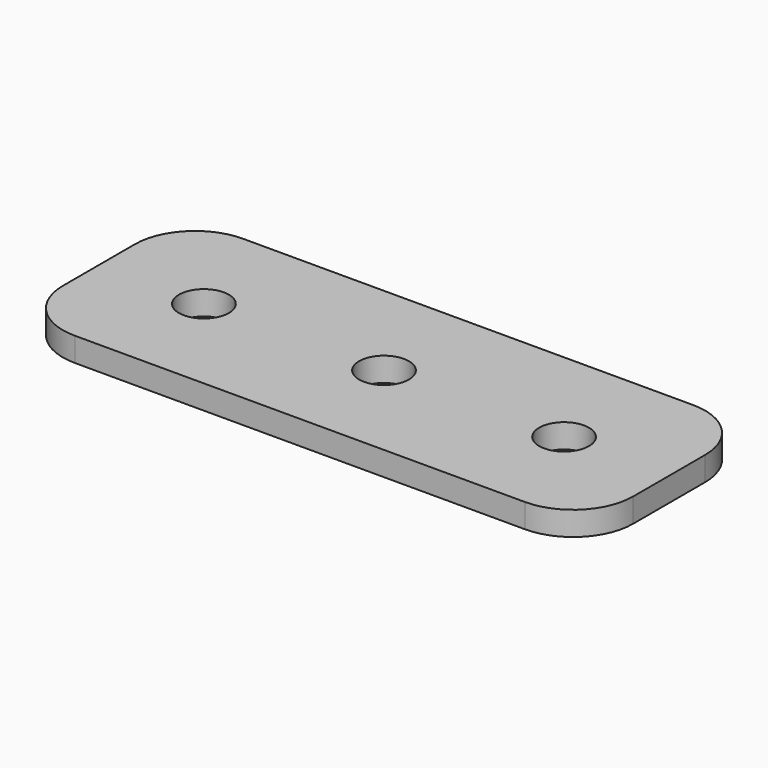
from build123d import *

# Parameters (mm, degrees)
SKETCH_R  = 4.15
PAD_DEPTH = 4


with BuildPart() as part:
    # Sketch → Pad (new body)
    with BuildSketch(Plane.XY):
        with BuildLine():
            Line((-37.5, 17.5), (37.5, 17.5))
            ThreePointArc((47.5, 7.5), (44.571068, 14.571068), (37.5, 17.5))
            Line((47.5, 7.5), (47.5, -7.5))
            ThreePointArc((37.5, -17.5), (44.571068, -14.571068), (47.5, -7.5))
            Line((37.5, -17.5), (-37.5, -17.5))
            ThreePointArc((-47.5, -7.5), (-44.571068, -14.571068), (-37.5, -17.5))
            Line((-47.5, -7.5), (-47.5, 7.5))
            ThreePointArc((-37.5, 17.5), (-44.571068, 14.571068), (-47.5, 7.5))
        make_face()
        Circle(SKETCH_R, mode=Mode.SUBTRACT)
        with Locations((-30, 0)):
            Circle(SKETCH_R, mode=Mode.SUBTRACT)
        with Locations((30, 0)):
            Circle(SKETCH_R, mode=Mode.SUBTRACT)
    extrude(amount=PAD_DEPTH)


solid = part.part
